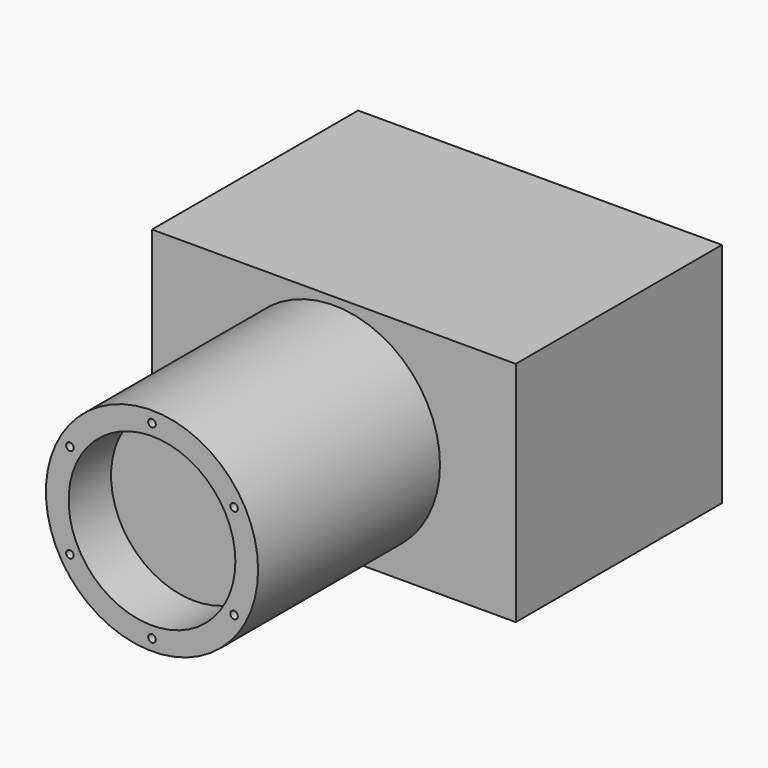
from build123d import *

# Parameters (mm, degrees)
F0_W     = 48
F0_H     = 30
F1_DEPTH = 34
F2_R     = 14
F2_R_2   = 11
F3_DEPTH = 30
F4_DEPTH = 23
F6_D     = 1
F6_DEPTH = 12
F6_TIP   = 0.3004303095


with BuildPart() as f1:
    # F0 (on Front) → F1 (new body)
    with BuildSketch(Plane.XZ):
        Rectangle(F0_W, F0_H)
    extrude(amount=F1_DEPTH)

    # F2 (on face) → F3 (join)
    with BuildSketch(Plane.XZ.offset(34)):
        Circle(F2_R)
        Circle(F2_R_2, mode=Mode.SUBTRACT)
    extrude(amount=F3_DEPTH)

    # F4 (add): a face of the model
    f4_faces = [f1.faces().sort_by_distance(p)[0] for p in [
        (0, -34, 0),
    ]]
    extrude(f4_faces, amount=F4_DEPTH)

    # F6
    with Locations(Plane.XZ.offset(64)):
        with Locations((0, 12.5), (-10.8253175473, 6.25), (-10.8253175473, -6.25), (0, -12.5), (10.8253175473, -6.25), (10.8253175473, 6.25)):
            Hole(F6_D / 2, depth=F6_DEPTH)
            with Locations((0, 0, -(F6_DEPTH + F6_TIP / 2))):  # 118° drill point
                Cone(0, F6_D / 2, F6_TIP, mode=Mode.SUBTRACT)


solid = f1.part
